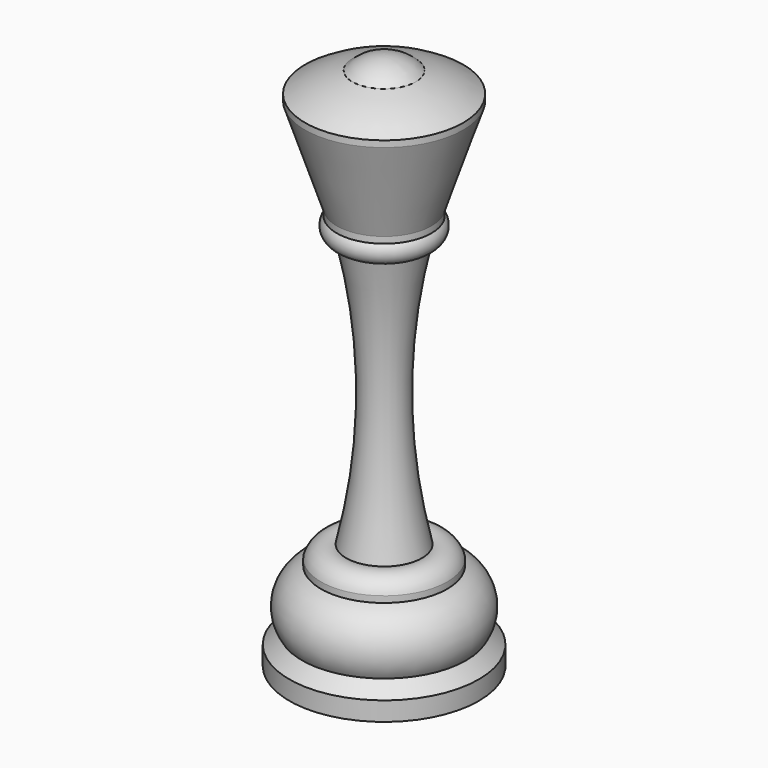
from build123d import *

# Parameters (mm, degrees)
F0_W   = 12.5
F0_H   = 1
F0_W_2 = 10
F0_W_3 = 15
F0_H_2 = 3


with BuildPart() as f1:
    # F0 (on Front) → F1 (revolve)
    with BuildSketch(Plane.XZ):
        with BuildLine():
            Line((0, -5.27), (12.5, -5.27))
            ThreePointArc((12.5, -5.27), (8.884681, -3.326098), (5, -2))
            ThreePointArc((5, -2), (2.702104, -0.494741), (0, 0))
            Line((0, 0), (0, -5.27))
        make_face()
        with Locations((6.25, -5.77)):
            Rectangle(F0_W, F0_H)
        Polygon((7.5, -21.27), (12.5, -6.27), (0, -6.27), (0, -21.27), align=None)
        Polygon((7.502531, -22.27), (7.5, -21.27), (0, -21.27), (0, -22.27), align=None)
        with BuildLine():
            ThreePointArc((6, -25.59), (7.822087, -24.414621), (7.502531, -22.27))
            Line((7.502531, -22.27), (0, -22.27))
            Line((0, -22.27), (0, -25.59))
            Line((0, -25.59), (6, -25.59))
        make_face()
        with BuildLine():
            ThreePointArc((6, -68.02), (3.463843, -46.805), (6, -25.59))
            Line((6, -25.59), (0, -25.59))
            Line((0, -25.59), (0, -68.02))
            Line((0, -68.02), (6, -68.02))
        make_face()
        with BuildLine():
            ThreePointArc((10, -70.02), (8.421705, -68.176591), (6, -68.02))
            Line((6, -68.02), (0, -68.02))
            Line((0, -68.02), (0, -70.02))
            Line((0, -70.02), (10, -70.02))
        make_face()
        with Locations((5, -70.52)):
            Rectangle(F0_W_2, F0_H)
        with BuildLine():
            ThreePointArc((13, -79.99), (13.690372, -74.772434), (10, -71.02))
            Line((10, -71.02), (0, -71.02))
            Line((0, -71.02), (0, -79.99))
            Line((0, -79.99), (13, -79.99))
        make_face()
        Polygon((15, -81.99), (13, -79.99), (0, -79.99), (0, -81.99), align=None)
        with Locations((7.5, -83.49)):
            Rectangle(F0_W_3, F0_H_2)
    revolve(axis=Axis((0, 0, -42.495), (0, 0, 1)))


solid = f1.part
